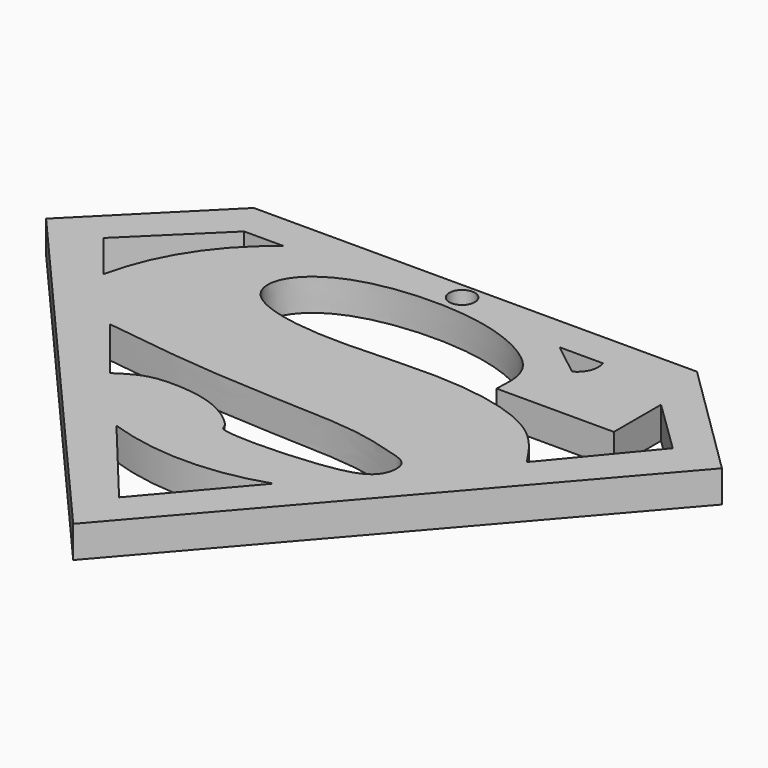
from build123d import *

# Parameters (mm, degrees)
F1_DEPTH = 5
F2_R     = 2
F3_DEPTH = 5


with BuildPart() as f1:
    # F0 (on Top) → F1 (new body)
    with BuildSketch(Plane.XY):
        Polygon((35.0450612605, 37.4689549208), (-34.4330482185, 37.4689549208), (-52.5192581117, 19.3696171045), (0.618971826, -41.7393110693), (53.4363277256, 19.3696171045), align=None)
        with BuildLine():
            Line((-20.8112485707, -7.709030062), (-28.9649199694, 2.4056490511))
            add(Edge.make_bspline(
                [(-28.9649199694, 2.4056490511), (-24.6262805883, 1.8055880718), (-15.7612162114, 0.5794941875), (-1.8423870634, -0.3307398829), (12.2541711628, -0.5822570681), (18.6547724604, -2.5959052895), (22.6287171453, -3.5927432016), (22.3934565793, -8.2502196653), (17.0360629167, -11.0958886579), (-1.2281009695, -11.5673505704), (-0.8282573516, -9.6488277127), (-5.563097567, -5.74328551), (-12.8050997587, -4.906816556), (-17.3350980012, -5.4165699545), (-19.6714379674, -6.957345034), (-20.8112485707, -7.709030062)],
                knots=[0, 0, 0, 0, 0.1062227086, 0.2170429637, 0.3266399251, 0.4021948652, 0.4556552629, 0.5083525619, 0.5815770295, 0.7020120747, 0.7312654473, 0.7994881559, 0.8798965398, 0.9414061312, 1, 1, 1, 1], degree=3))
        make_face(mode=Mode.SUBTRACT)
        with BuildLine():
            Line((0.618971826, -32.7482670546), (-11.5015311167, -18.1116089225))
            ThreePointArc((-11.5015311167, -18.1116089225), (0.7877387106, -20.1459934368), (13.0770085379, -18.1116089225))
            Line((13.0770085379, -18.1116089225), (0.618971826, -32.7482670546))
        make_face(mode=Mode.SUBTRACT)
        with BuildLine():
            Line((-31.4619131386, 31.8687520921), (-25.2564437687, 31.8687520921))
            ThreePointArc((-25.2564437687, 31.8687520921), (-33.3353025294, 23.2077768501), (-37.84096241, 12.254262343))
            Line((-37.84096241, 12.254262343), (-43.8294559717, 19.7615772486))
            Line((-43.8294559717, 19.7615772486), (-31.4619131386, 31.8687520921))
        make_face(mode=Mode.SUBTRACT)
        with BuildLine():
            add(Edge.make_bspline(
                [(18.688576296, 18.6410993338), (18.8236494056, 20.7530025422), (19.136317112, 25.6416434746), (8.6837015663, 31.5793987134), (-5.3727942346, 32.2939661316), (-15.8051473474, 29.7529852063), (-20.8752102765, 24.6427151434), (-20.0899352121, 18.2951871441), (-6.0889457223, 15.3630889492), (11.6657260085, 17.6125695764), (28.1533538387, 14.2458414651), (32.0552088773, 8.3233782872), (33.7573811412, 5.7397219352)],
                knots=[0, 0, 0, 0, 0.0764518764, 0.1769710709, 0.2944183152, 0.3947853597, 0.4725201059, 0.5381910856, 0.6474326653, 0.7829257939, 0.905302045, 1, 1, 1, 1], degree=3))
            Line((18.688576296, 18.6410993338), (37.0783284307, 18.6410993338))
            Line((37.0783284307, 18.6410993338), (37.0783284307, 27.8823766857))
            Line((37.0783284307, 27.8823766857), (45.4101450741, 19.7675339878))
            Line((45.4101450741, 19.7675339878), (33.7573811412, 5.7397219352))
        make_face(mode=Mode.SUBTRACT)
        with BuildLine():
            Line((23.0776909739, 27.9353577644), (17.870305106, 32.014477998))
            Line((17.870305106, 32.014477998), (24.661604315, 32.014477998))
            ThreePointArc((24.661604315, 32.014477998), (24.6467702058, 29.6731629139), (23.0776909739, 27.9353577644))
        make_face(mode=Mode.SUBTRACT)
    extrude(amount=F1_DEPTH)

    # F2 (on face) → F3 (cut, through all)
    with BuildSketch(Plane.XY.offset(5)):
        with Locations((0.306006521, 34.8624177277)):
            Circle(F2_R)
    extrude(amount=-F3_DEPTH, mode=Mode.SUBTRACT)


solid = f1.part
